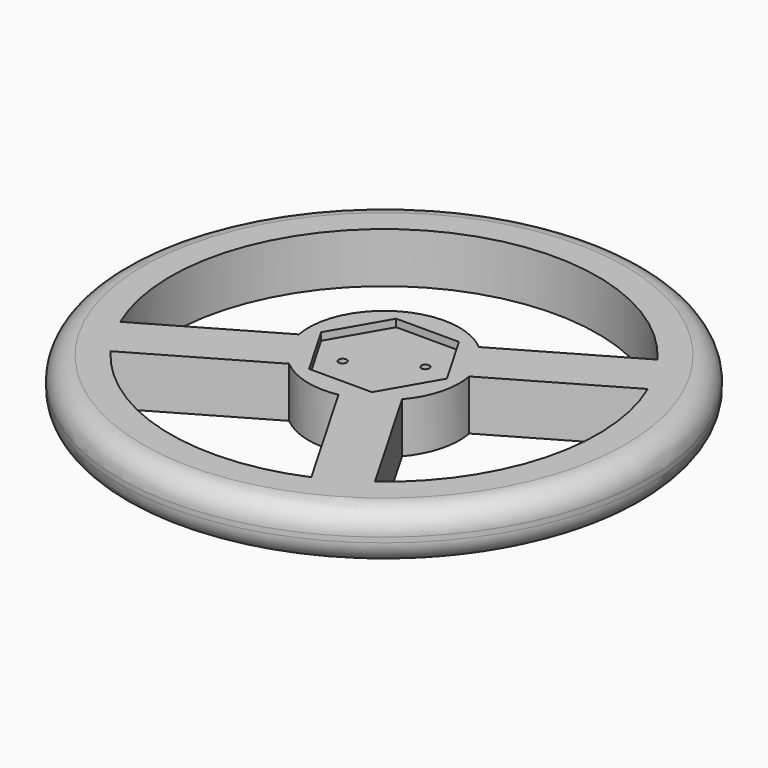
from build123d import *

# Parameters (mm, degrees)
SKETCH012_R             = 105
SKETCH012_R_2           = 85
PAD006_DEPTH            = 20
PAD005_DEPTH            = 20
POCKET006_DEPTH         = 10
SKETCH013_R             = 1.6
POCKET007_DEPTH         = 20
POCKET008_DEPTH         = 3
FILLET001_R             = 9
BODY002_PLACEMENT_ANGLE = 30


with BuildPart() as part:
    # Sketch012 → Pad006 (new body)
    with BuildSketch(Plane.XY):
        Circle(SKETCH012_R)
        Circle(SKETCH012_R_2, mode=Mode.SUBTRACT)
    extrude(amount=PAD006_DEPTH)

    # Sketch014 → Pad005 (join)
    with BuildSketch(Plane.XY):
        with BuildLine():
            ThreePointArc((-28.284271, -10), (-21.213203, -21.213203), (-10, -28.284271))
            Line((-10, -100), (-10, -28.284271))
            Line((10, -100), (-10, -100))
            Line((10, -28.284271), (10, -100))
            ThreePointArc((10, -28.284271), (21.213203, -21.213203), (28.284271, -10))
            Line((100, -10), (28.284271, -10))
            Line((100, 10), (100, -10))
            Line((28.284271, 10), (100, 10))
            ThreePointArc((28.284271, 10), (0, 30), (-28.284271, 10))
            Line((-100, 10), (-28.284271, 10))
            Line((-100, -10), (-100, 10))
            Line((-28.284271, -10), (-100, -10))
        make_face()
    extrude(amount=PAD005_DEPTH)

    # Sketch011 → Pocket006 (cut)
    with BuildSketch(Plane.XY):
        Polygon((19.052559, 11), (0, 22), (-19.052559, 11), (-19.052559, -11), (0, -22), (19.052559, -11), align=None)
    extrude(amount=POCKET006_DEPTH, mode=Mode.SUBTRACT)

    # Sketch013 → Pocket007 (cut)
    with BuildSketch(Plane.XY):
        with Locations((-13, 0)):
            Circle(SKETCH013_R)
        with Locations((13, 0)):
            Circle(SKETCH013_R)
    extrude(amount=POCKET007_DEPTH, mode=Mode.SUBTRACT)

    # Sketch015 → Pocket008 (cut)
    with BuildSketch(Plane.XY.offset(20)):
        Polygon((21.650635, 12.5), (0, 25), (-21.650635, 12.5), (-21.650635, -12.5), (0, -25), (21.650635, -12.5), align=None)
    extrude(amount=-POCKET008_DEPTH, mode=Mode.SUBTRACT)

    # Fillet001
    fillet001_edges = [part.edges().sort_by_distance(p)[0] for p in [
        (-105, 0, 20),
        (-105, 0, 0),
    ]]
    fillet(fillet001_edges, radius=FILLET001_R)


with BuildPart() as part_1:
    # Body002 placement: moved
    add(part.part.moved(Location((50, 50, 100))).rotate(Axis((50, 50, 100), (0, 0, 1)), BODY002_PLACEMENT_ANGLE))


solid = part_1.part
